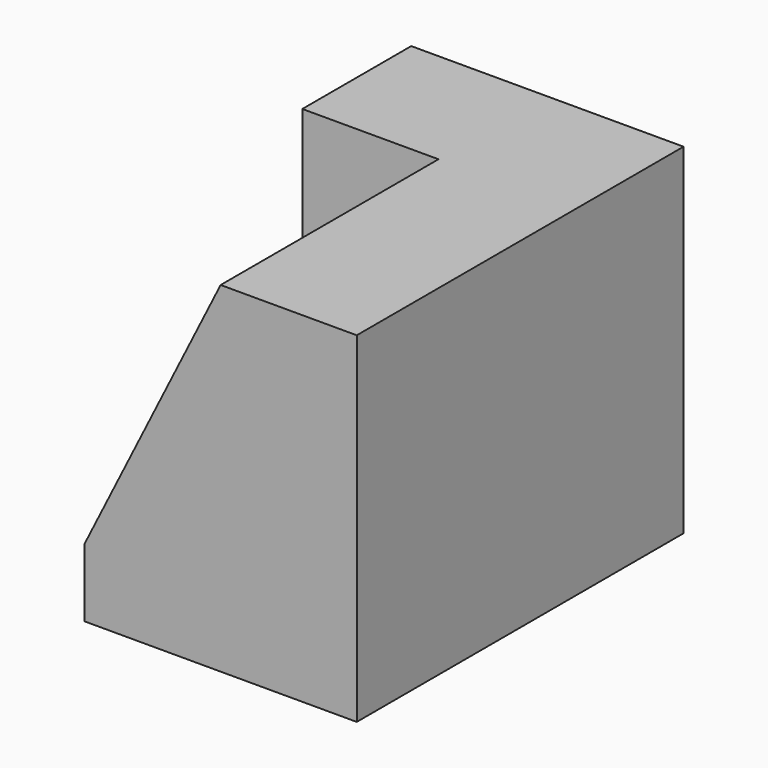
from build123d import *

# Parameters (mm, degrees)
F0_W     = 25.4
F0_H     = 38.1
F1_DEPTH = 31.75
F3_DEPTH = 25.4


with BuildPart() as f1:
    # F0 (on Top) → F1 (new body)
    with BuildSketch(Plane.XY):
        with Locations((12.7, 19.05)):
            Rectangle(F0_W, F0_H)
    extrude(amount=F1_DEPTH)

    # F2 (on face) → F3 (cut)
    with BuildSketch(Plane.XZ):
        Polygon((0, 6.35), (12.7, 31.75), (0, 31.75), align=None)
    extrude(amount=-F3_DEPTH, mode=Mode.SUBTRACT)


solid = f1.part
